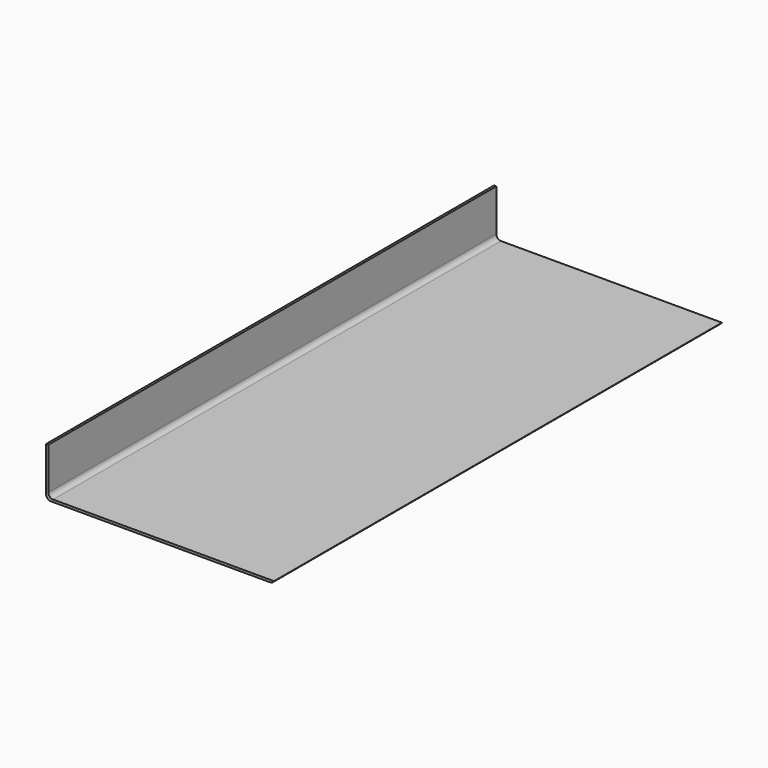
from build123d import *

# Parameters (mm, degrees)
F1_DEPTH = 304.8


with BuildPart() as f1:
    # F0 (on Front) → F1 (new body)
    with BuildSketch(Plane.XZ):
        with BuildLine():
            Line((-9.986188, 0), (0, 0))
            Line((0, 0), (109.393812, 0))
            ThreePointArc((109.393812, 0), (110.663812, 0.340295), (111.593517, 1.27))
            Line((111.593517, 1.27), (-8.716188, 1.27))
            ThreePointArc((-8.716188, 1.27), (-10.512239, 2.013949), (-11.256188, 3.81))
            Line((-11.256188, 3.81), (-11.256188, 26.67))
            Line((-11.256188, 26.67), (-12.526188, 26.67))
            Line((-12.526188, 26.67), (-12.526188, 2.54))
            ThreePointArc((-12.526188, 2.54), (-11.782239, 0.743949), (-9.986188, 0))
        make_face()
    extrude(amount=-F1_DEPTH)


solid = f1.part
